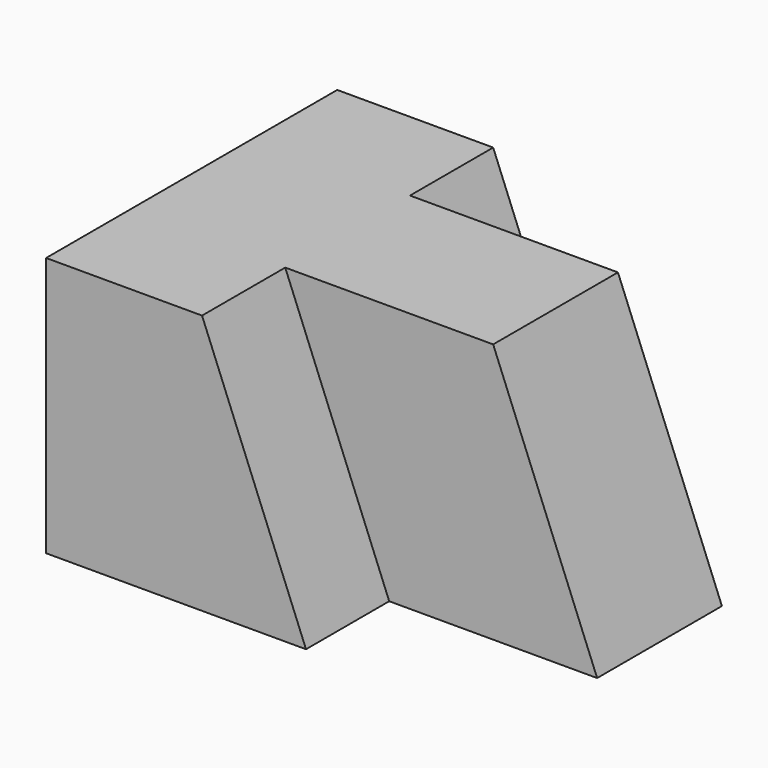
from build123d import *

# Parameters (mm, degrees)
F0_W      = 57.15
F0_H      = 31.75
F1_DEPTH  = 44.45
F3_DEPTH  = 12.7
F5_DEPTH  = 12.7
F7_DEPTH  = 12.7
F9_DEPTH  = 12.7
F10_DEPTH = 6.35
F11_DEPTH = 6.35
F12_DEPTH = 25.4


with BuildPart() as f1:
    # F0 (on Front) → F1 (new body)
    with BuildSketch(Plane.XZ):
        with Locations((28.575, 15.875)):
            Rectangle(F0_W, F0_H)
    extrude(amount=F1_DEPTH)

    # F2 (on Front) → F3 (cut)
    with BuildSketch(Plane.XZ):
        Polygon((19.05, 31.75), (19.05, 0), (31.75, 0), align=None)
    extrude(amount=-F3_DEPTH, mode=Mode.SUBTRACT)

    # F4 (on face) → F5 (cut)
    with BuildSketch(Plane.XZ.offset(44.45)):
        Polygon((31.75, 0), (57.15, 0), (57.15, 31.75), (19.05, 31.75), align=None)
    extrude(amount=-F5_DEPTH, mode=Mode.SUBTRACT)

    # F6 (on face) → F7 (cut)
    with BuildSketch(Plane(origin=(0, 0, 0), x_dir=(-1, 0, 0), z_dir=(0, 1, 0))):
        Polygon((-57.15, 31.75), (-57.15, 0), (-31.75, 0), (-19.05, 31.75), align=None)
    extrude(amount=-F7_DEPTH, mode=Mode.SUBTRACT)

    # F8 (on face) → F9 (cut)
    with BuildSketch(Plane.XZ.offset(31.75)):
        Polygon((44.45, 31.75), (57.15, 0), (57.15, 31.75), align=None)
    extrude(amount=-F9_DEPTH, mode=Mode.SUBTRACT)

    # F10 (add): a face of the model
    f10_faces = [f1.faces().sort_by_distance(p)[0] for p in [
        (52.9166666667, -19.05, 21.1666666667),
    ]]
    extrude(f10_faces, amount=F10_DEPTH)

    # F11 (cut): a face of the model
    f11_faces = [f1.faces().sort_by_distance(p)[0] for p in [
        (52.9166666667, -25.4, 21.1666666667),
    ]]
    extrude(f11_faces, amount=-F11_DEPTH, mode=Mode.SUBTRACT)

    # F12 (cut): a face of the model
    f12_faces = [f1.faces().sort_by_distance(p)[0] for p in [
        (52.9166666667, -19.05, 21.1666666667),
    ]]
    extrude(f12_faces, amount=-F12_DEPTH, mode=Mode.SUBTRACT)


solid = f1.part
